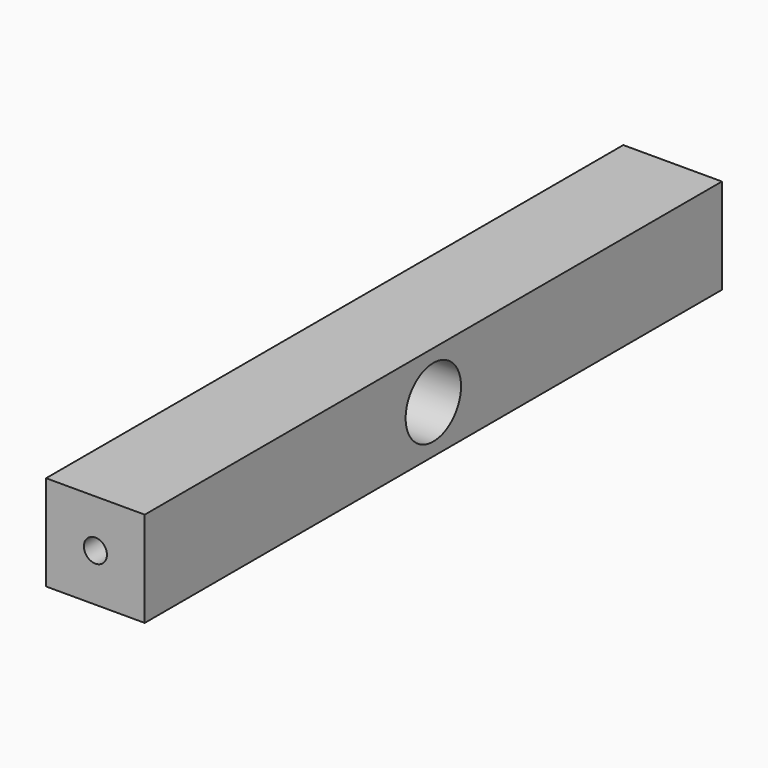
from build123d import *

# Parameters (mm, degrees)
F0_W          = 16.298802
F0_H          = 15.749276
F1_DEPTH      = 59.5884
F1_DEPTH_BACK = 59.5884
F2_R          = 5.719222
F3_DEPTH      = 18.542
F4_R          = 1.903741
F5_DEPTH      = 19.05
F6_R          = 1.908705
F7_DEPTH      = 19.05


with BuildPart() as f1:
    # F0 (on Front) → F1 (new body, two sides)
    with BuildSketch(Plane.XZ) as f1_sk:
        Rectangle(F0_W, F0_H)
    extrude(amount=F1_DEPTH)
    extrude(f1_sk.sketch, amount=-F1_DEPTH_BACK)

    # F2 (on face) → F3 (cut)
    with BuildSketch(Plane.YZ.offset(8.149401)):
        Circle(F2_R)
    extrude(amount=-F3_DEPTH, mode=Mode.SUBTRACT)

    # F4 (on face) → F5 (cut)
    with BuildSketch(Plane.XZ.offset(59.5884)):
        Circle(F4_R)
    extrude(amount=-F5_DEPTH, mode=Mode.SUBTRACT)

    # F6 (on face) → F7 (cut)
    with BuildSketch(Plane(origin=(0, 59.5884, 0), x_dir=(-1, 0, 0), z_dir=(0, 1, 0))):
        Circle(F6_R)
    extrude(amount=-F7_DEPTH, mode=Mode.SUBTRACT)


solid = f1.part
